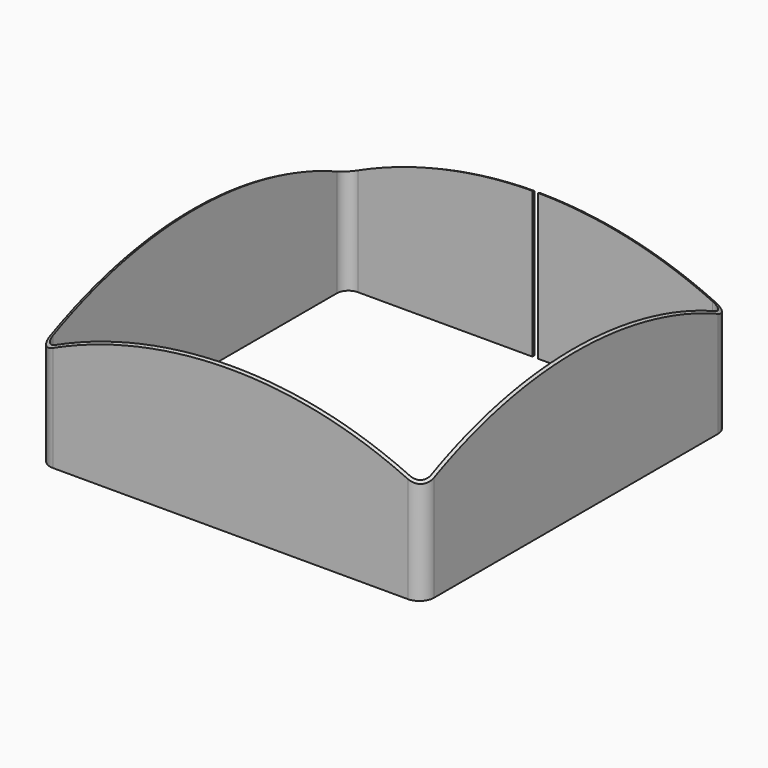
from build123d import *

# Parameters (mm, degrees)
F2_DEPTH = 101.6


with BuildPart() as f2:
    # F1 (on Top) → F2 (new body)
    with BuildSketch(Plane.XY):
        with BuildLine():
            ThreePointArc((-103.1875, 96.8375), (-101.327628, 101.327628), (-96.8375, 103.1875))
            Line((-96.8375, 103.1875), (-1.5875, 103.1875))
            Line((-1.5875, 103.1875), (-1.5875, 104.775))
            Line((-1.5875, 104.775), (-96.8375, 104.775))
            ThreePointArc((-96.8375, 104.775), (-102.45016, 102.45016), (-104.775, 96.8375))
            Line((-104.775, 96.8375), (-104.775, -96.8375))
            ThreePointArc((-104.775, -96.8375), (-102.45016, -102.45016), (-96.8375, -104.775))
            Line((-96.8375, -104.775), (96.8375, -104.775))
            ThreePointArc((96.8375, -104.775), (102.45016, -102.45016), (104.775, -96.8375))
            Line((104.775, -96.8375), (104.775, 96.8375))
            ThreePointArc((104.775, 96.8375), (102.45016, 102.45016), (96.8375, 104.775))
            Line((96.8375, 104.775), (1.5875, 104.775))
            Line((1.5875, 104.775), (1.5875, 103.1875))
            Line((1.5875, 103.1875), (96.8375, 103.1875))
            ThreePointArc((96.8375, 103.1875), (101.327628, 101.327628), (103.1875, 96.8375))
            Line((103.1875, 96.8375), (103.1875, -96.8375))
            ThreePointArc((103.1875, -96.8375), (101.327628, -101.327628), (96.8375, -103.1875))
            Line((96.8375, -103.1875), (-96.8375, -103.1875))
            ThreePointArc((-96.8375, -103.1875), (-101.327628, -101.327628), (-103.1875, -96.8375))
            Line((-103.1875, -96.8375), (-103.1875, 96.8375))
        make_face()
    extrude(amount=F2_DEPTH)

    # F4 (on Front) → F5 (revolve, cut)
    with BuildSketch(Plane.XZ):
        with BuildLine():
            ThreePointArc((-215.63448, -18.169709), (-123.331882, 69.647848), (0, 101.6))
            Line((0, 101.6), (0, 169.327586))
            Line((0, 169.327586), (-215.63448, 169.327586))
            Line((-215.63448, 169.327586), (-215.63448, -18.169709))
        make_face()
    revolve(axis=Axis((0, 0, 135.463793), (0, 0, 1)), mode=Mode.SUBTRACT)


solid = f2.part
